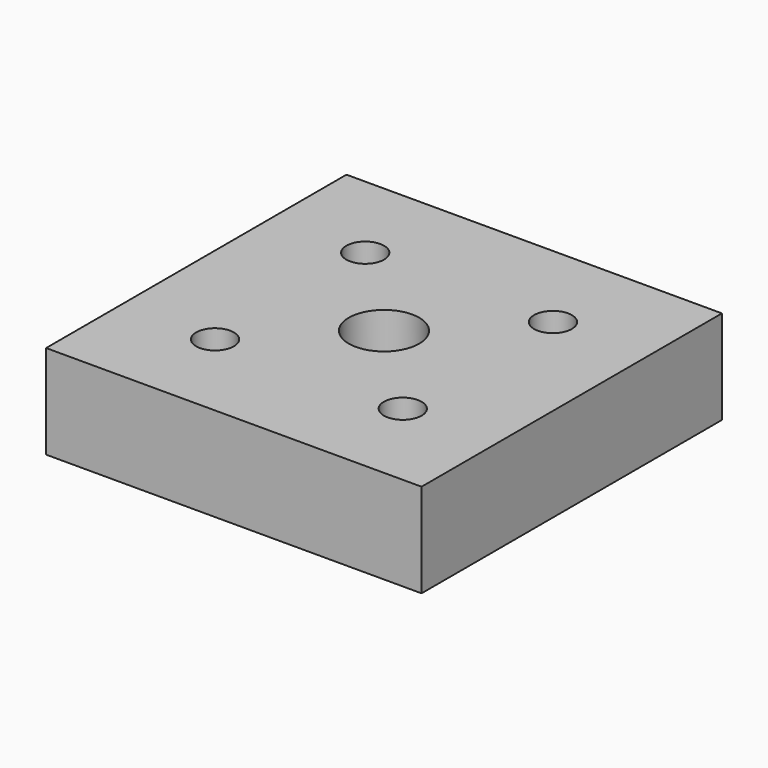
from build123d import *

# Parameters (mm, degrees)
F0_W          = 50.8
F0_H          = 12.7
F1_DEPTH      = 50.8
F2_R          = 2.5527
F2_R_2        = 4.7625
F3_DEPTH      = 12.701
F4_W          = 50.8
F4_H          = 50.8
F4_R          = 4.7625
F4_R_2        = 9.525
F5_DEPTH      = 12.7
F6_W          = 50.8
F6_H          = 50.8
F6_R          = 4.7625
F6_R_2        = 3.175
F7_DEPTH      = 6.35
F8_R          = 2.8575
F9_DEPTH      = 38.1
F9_DEPTH_BACK = 15.875
F10_R         = 19.05
F11_DEPTH     = 9.525
F12_R         = 2.8575
F13_DEPTH     = 1.5875


with BuildPart() as f1:
    # F0 (on Front) → F1 (new body)
    with BuildSketch(Plane.XZ):
        with Locations((0, 6.35)):
            Rectangle(F0_W, F0_H)
    extrude(amount=F1_DEPTH)

    # F2 (on face) → F3 (cut, through all)
    with BuildSketch(Plane.XY.offset(12.7)):
        with Locations((-12.7, -12.7)):
            Circle(F2_R)
        with Locations((-12.7, -38.1)):
            Circle(F2_R)
        with Locations((12.7, -38.1)):
            Circle(F2_R)
        with Locations((12.7, -12.7)):
            Circle(F2_R)
        with Locations((0, -25.4)):
            Circle(F2_R_2)
    extrude(amount=-F3_DEPTH, mode=Mode.SUBTRACT)


with BuildPart() as f5:
    # F4 (on face) → F5 (new body)
    with BuildSketch(Plane.XY.offset(12.7)):
        with Locations((0, -25.4)):
            Rectangle(F4_W, F4_H)
        with Locations((-12.7, -38.1)):
            Circle(F4_R, mode=Mode.SUBTRACT)
        with Locations((0, -25.4)):
            Circle(F4_R_2, mode=Mode.SUBTRACT)
        with Locations((12.7, -38.1)):
            Circle(F4_R, mode=Mode.SUBTRACT)
        with Locations((-12.7, -12.7)):
            Circle(F4_R, mode=Mode.SUBTRACT)
        with Locations((12.7, -12.7)):
            Circle(F4_R, mode=Mode.SUBTRACT)
    extrude(amount=F5_DEPTH)

    # F6 (on face) → F7 (join)
    with BuildSketch(Plane.XY.offset(25.4)):
        with Locations((0, -25.4)):
            Rectangle(F6_W, F6_H)
        with Locations((-12.7, -38.1)):
            Circle(F6_R, mode=Mode.SUBTRACT)
        with Locations((0, -25.4)):
            Circle(F6_R_2, mode=Mode.SUBTRACT)
        with Locations((12.7, -38.1)):
            Circle(F6_R, mode=Mode.SUBTRACT)
        with Locations((-12.7, -12.7)):
            Circle(F6_R, mode=Mode.SUBTRACT)
        with Locations((12.7, -12.7)):
            Circle(F6_R, mode=Mode.SUBTRACT)
    extrude(amount=F7_DEPTH)


with BuildPart() as f9:
    # F8 (on face) → F9 (new body, two sides)
    with BuildSketch(Plane.XY.offset(31.75)) as f9_sk:
        with Locations((0, -25.4)):
            Circle(F8_R)
    extrude(amount=-F9_DEPTH)
    extrude(f9_sk.sketch, amount=-F9_DEPTH_BACK)

    # F10 (on face) → F11 (join)
    with BuildSketch(Plane.XY.offset(47.625)):
        with Locations((0, -25.4)):
            Circle(F10_R)
    extrude(amount=F11_DEPTH)


with BuildPart() as f13:
    # F12 (on face) → F13 (new body)
    with BuildSketch(Plane.XY.offset(12.7)):
        Polygon((4.7625, -28.149631), (4.7625, -22.650369), (0, -19.900739), (-4.7625, -22.650369), (-4.7625, -28.149631), (0, -30.899261), align=None)
        with Locations((0, -25.4)):
            Circle(F12_R, mode=Mode.SUBTRACT)
    extrude(amount=F13_DEPTH)


solid = f1.part
